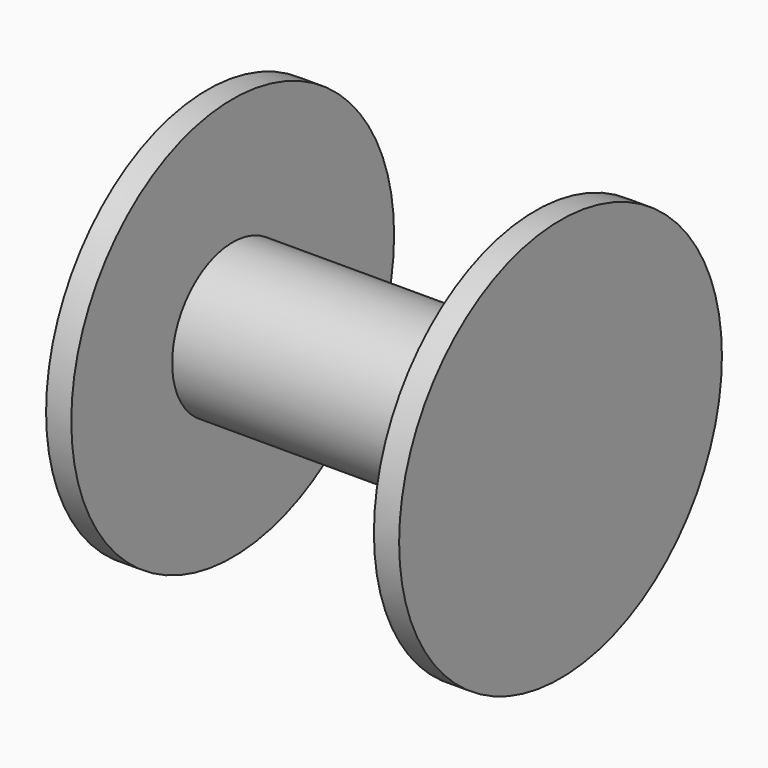
from build123d import *

# Parameters (mm, degrees)
F2_R     = 50.8
F4_DEPTH = 6.35
F5_R     = 19.05
F5_R_2   = 12.7
F6_DEPTH = 38.1
F3_R     = 50.8
F7_DEPTH = 6.35


with BuildPart() as f4:
    # F2 (on offset) → F4 (new body)
    with BuildSketch(Plane.YZ.offset(-38.1)):
        Circle(F2_R)
    extrude(amount=-F4_DEPTH)

    # F5 (on Right) → F6 (join, symmetric)
    with BuildSketch(Plane.YZ):
        Circle(F5_R)
        Circle(F5_R_2, mode=Mode.SUBTRACT)
    extrude(amount=F6_DEPTH, both=True)

    # F3 (on offset) → F7 (join)
    with BuildSketch(Plane.YZ.offset(38.1)):
        Circle(F3_R)
    extrude(amount=F7_DEPTH)


solid = f4.part
